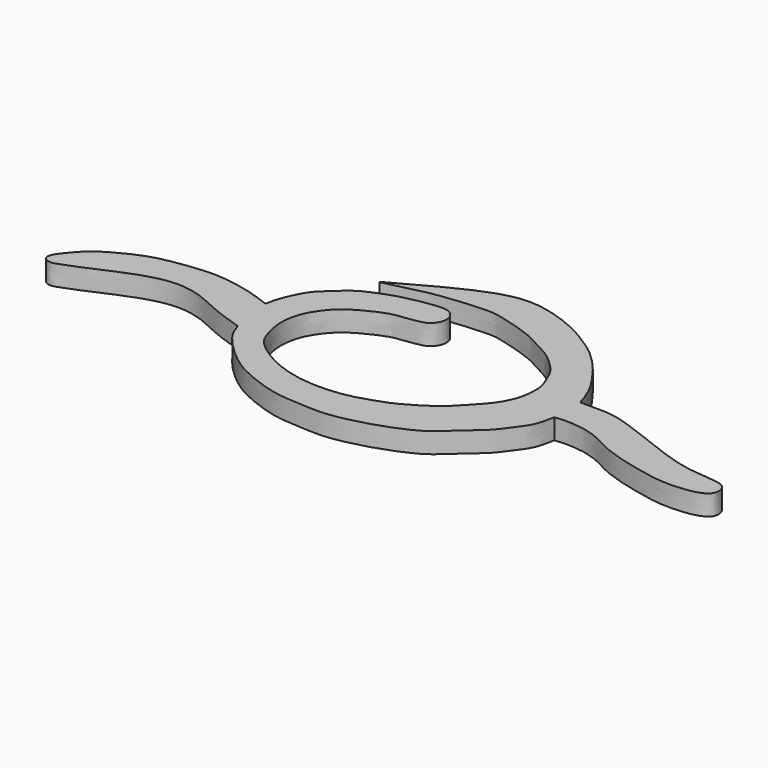
from build123d import *

# Parameters (mm, degrees)
F1_DEPTH = 3


with BuildPart() as f1:
    # F0 (on Top) → F1 (new body)
    with BuildSketch(Plane.XY):
        with BuildLine():
            add(Edge.make_bspline(
                [(-2.9890012826, 26.6610181139), (0.7058323558, 28.7230454498), (7.1510918409, 32.3200937283), (13.879105701, 34.1117122438), (20.6942565627, 31.7667684225), (24.0256567373, 29.7925355048), (26.8596556482, 27.8508703992), (29.2017125534, 25.3864634533), (30.830685996, 23.1542348122), (32.6394276009, 20.5582359341), (33.571345065, 17.5851978757), (33.5690297025, 17.5495077138), (33.5536047123, 17.5113423095), (33.56577243, 17.5068931753)],
                knots=[0, 0, 0, 0, 0.1730713307, 0.3041637026, 0.4358824031, 0.5355691237, 0.6280296233, 0.7203680988, 0.8034371594, 0.898565538, 0.9820057092, 0.9904210824, 1, 1, 1, 1], degree=3))
            add(Edge.make_bspline(
                [(-10.0316135213, 14.0872523189), (-9.9654310631, 14.5236148049), (-9.8120717394, 15.5347627377), (-8.8693338443, 17.8384164522), (-7.826954522, 19.7484042782), (-6.2237231367, 21.1596965744), (-4.195157576, 23.0835738901), (-1.9995653959, 24.0805745137), (0.9251562659, 25.1737382017), (4.0363867581, 25.7811742292), (6.886439895, 26.1477349472), (8.0248287711, 25.5778389307), (8.7686780399, 24.5555703371), (8.6528209741, 23.2026911661), (7.8924931011, 22.1394452481), (6.8260627833, 21.6608658188), (4.5702377638, 21.3704075095), (2.7217642718, 21.177717019), (0.175146619, 20.0572378306), (-2.6083701592, 18.4591250131), (-4.3044380128, 16.3836137071), (-5.5368939741, 14.1386237608), (-5.9070204613, 11.1048458516), (-5.2253234193, 8.4146701241), (-4.3797259528, 6.3391435608), (-1.9281977902, 4.559043779), (0.1391574842, 3.3714868914), (2.8445884633, 2.3509761872), (6.0996860384, 1.7481615089), (9.4494510639, 1.8132750234), (12.2767120108, 2.2269039528), (14.9213834592, 3.1475416372), (16.982199051, 3.8066910968), (20.3041412815, 5.7666832343), (22.2387355653, 7.1753033728), (24.2512479952, 9.4011960429), (26.130482629, 11.341084328), (27.4112710393, 13.9317047544), (27.6276311255, 15.8324190403), (27.7264438559, 17.6817442848), (26.9338271735, 19.6834860041), (26.1659193805, 21.4605139964), (24.602332913, 23.0782565364), (22.9359450026, 24.499874851), (21.0462780577, 25.4225676251), (18.9040084306, 26.6721968585), (16.5505430143, 27.5418371736), (14.0381587148, 28.1954734313), (12.0617066364, 28.7792842247), (9.3740106757, 28.6513283639), (7.1993599433, 28.5041884515), (4.9930295043, 28.2226364841), (2.9769584311, 28.012096279), (-0.9767940968, 26.9286858241), (-2.898440085, 26.5734218173), (-3.1678061726, 26.4014493406), (-3.1353066825, 26.5995803583), (-3.0398796206, 26.6396531822), (-2.9890012826, 26.6610181139)],
                knots=[0, 0, 0, 0, 0.0144413758, 0.0334638483, 0.0512798693, 0.0688685234, 0.0888745082, 0.1076553118, 0.128840288, 0.1508740608, 0.1709735423, 0.1840153285, 0.1969940974, 0.2106850962, 0.224028136, 0.2369149824, 0.2549056821, 0.2715577062, 0.2915266014, 0.3132519136, 0.3328327491, 0.3519867022, 0.372907552, 0.392899041, 0.4107661128, 0.4313601958, 0.4501857182, 0.4705018921, 0.4925670722, 0.514651174, 0.5351791835, 0.5549966494, 0.5730616569, 0.5964588732, 0.6155319114, 0.6360936142, 0.6562429146, 0.6764705319, 0.6930943155, 0.7093002905, 0.7268522965, 0.7436764542, 0.7616516738, 0.77949218, 0.7969571406, 0.8159024651, 0.8351886673, 0.8545153805, 0.8719058455, 0.891492275, 0.9095931921, 0.9271482435, 0.9446365225, 0.9695582957, 0.9861576842, 0.9909636235, 0.9951821847, 1, 1, 1, 1], degree=3))
            add(Edge.make_bspline(
                [(-9.0513536707, 7.7460808679), (-9.6658249072, 7.9382319947), (-10.9501223414, 8.3398442823), (-13.1141006294, 9.1370310837), (-15.4036312018, 10.1525462038), (-17.1989882048, 11.0459127837), (-20.3517848541, 11.749013008), (-23.6381896437, 11.4060921939), (-27.7369894117, 10.0010212057), (-31.0914585562, 8.3353848048), (-34.4917994913, 7.080882252), (-35.6102456536, 6.6149015602), (-36.5702714672, 6.8090919152), (-37.1552918977, 7.5652208157), (-36.6091519017, 8.770608793), (-35.3115680365, 10.3296437845), (-33.7069756588, 12.0054797858), (-30.9435475784, 13.5619209754), (-27.6306938966, 15.1466886493), (-22.9707871653, 15.9239883571), (-18.6963082854, 16.3155164494), (-14.6601062948, 15.5738994749), (-12.5590955981, 15.0081682096), (-10.901242917, 14.4041113529), (-10.0316135213, 14.0872523189)],
                knots=[0, 0, 0, 0, 0.039572686, 0.082710298, 0.12703284, 0.1671505751, 0.2168092439, 0.2684371586, 0.3266743051, 0.3829201718, 0.4359371711, 0.4663267327, 0.4926327632, 0.5176629975, 0.5482510754, 0.5885945297, 0.6316014844, 0.6813138457, 0.7355962455, 0.7966704122, 0.8561019786, 0.9123537244, 0.9540249996, 1, 1, 1, 1], degree=3))
            add(Edge.make_bspline(
                [(33.56577243, 12.7544850111), (33.447887612, 12.1353894519), (33.2158474544, 10.920944779), (32.5648807956, 9.3101870269), (31.2226488233, 7.6113785015), (29.937171034, 5.7097253723), (27.5310059288, 3.8445411866), (24.9803856092, 1.2670737194), (22.482071082, -0.1659762572), (18.991301159, -1.5280423577), (16.0258102579, -2.3788124107), (12.065341506, -3.1934764213), (8.1628724324, -2.8451502194), (4.7185911721, -2.7483618251), (0.2662423727, -1.1880331565), (-2.6551550992, 0.2577063076), (-5.4835304725, 2.5182135092), (-8.2529692071, 5.4293795578), (-8.8098189295, 7.0416692901), (-9.0513536707, 7.7460808679)],
                knots=[0, 0, 0, 0, 0.0455721215, 0.0893587783, 0.1380859363, 0.188523639, 0.2469435969, 0.3103698776, 0.3674506079, 0.4313309827, 0.4906955404, 0.5574700587, 0.6233303524, 0.6858044525, 0.7576698112, 0.8182520992, 0.8819165244, 0.9485593182, 1, 1, 1, 1], degree=3))
            add(Edge.make_bspline(
                [(33.56577243, 17.5068931753), (34.6757234305, 17.4987776928), (36.9613347854, 17.5916654424), (40.1874778445, 17.1669388014), (46.497610614, 14.5641183736), (49.1733172646, 13.6151186548), (53.0258455862, 12.3072381395), (56.5375837489, 12.1048290103), (58.8231405555, 11.8248017338), (59.5090745148, 11.2821811753), (59.8460734135, 10.5064317204), (59.8174461671, 9.6832253905), (59.2804996616, 8.8399157751), (57.1486747133, 8.0237998826), (53.0222473822, 7.9128920522), (50.3803316583, 8.4202691225), (46.1802623007, 9.3391120175), (42.6319159065, 10.5926102521), (40.4273424513, 12.0246633404), (38.0582699428, 12.610853172), (37.8400344697, 12.6574156777), (35.5876578298, 12.9759886778), (34.2343159584, 12.8292191403), (33.56577243, 12.7544850111)],
                knots=[0, 0, 0, 0, 0.0553723983, 0.111747126, 0.1906303631, 0.2439404213, 0.3043792962, 0.3631370138, 0.4081962827, 0.4352579808, 0.4625268053, 0.489542855, 0.5180642044, 0.5632629106, 0.6252042684, 0.6763890319, 0.7393986432, 0.7988451547, 0.8501933963, 0.8952157666, 0.9106213791, 0.9547783596, 1, 1, 1, 1], degree=3))
        make_face()
    extrude(amount=F1_DEPTH)


solid = f1.part
